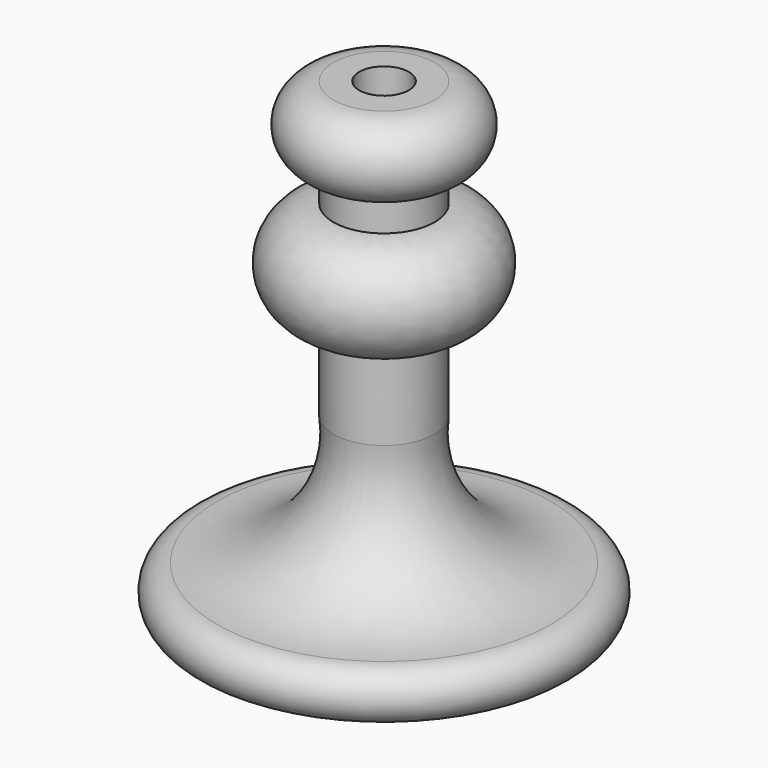
from build123d import *


with BuildPart() as f1:
    # F0 (on Front) → F1 (revolve)
    with BuildSketch(Plane.XZ):
        with BuildLine():
            Line((0, 94.782658), (0, 0))
            Line((0, 0), (52.174587, 0))
            ThreePointArc((52.174587, 0), (59.995907, 7.821321), (52.174587, 15.642641))
            ThreePointArc((52.174587, 15.642641), (24.71441, 27.591632), (15.834101, 56.191977))
            Line((15.834101, 56.191977), (15.834101, 82.116088))
            ThreePointArc((15.834101, 82.116088), (32.064253, 98.346241), (15.834101, 114.576394))
            Line((15.834101, 114.576394), (15.834101, 124.628954))
            ThreePointArc((15.834101, 124.628954), (27.539822, 136.423025), (15.834101, 148.217097))
            Line((15.834101, 148.217097), (7.771396, 148.277723))
            Line((7.771396, 148.277723), (7.771396, 114.089437))
            Line((7.771396, 114.089437), (0, 114.089437))
            Line((0, 114.089437), (0, 101.909823))
            ThreePointArc((0, 101.909823), (-0.396052, 98.346241), (0, 94.782658))
        make_face()
    revolve(axis=Axis((0, 0, 47.391329), (0, 0, -1)))


solid = f1.part
